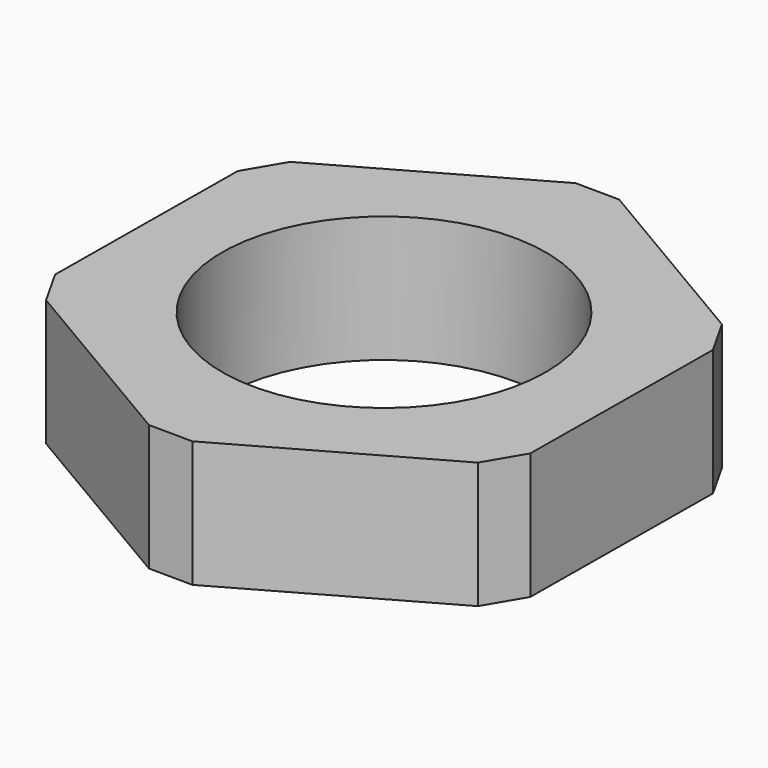
from build123d import *

# Parameters (mm, degrees)
F0_R     = 32.560597
F1_DEPTH = 25.4
F2_SIZE2 = 5.08
F2_SIZE  = 5.08


with BuildPart() as f1:
    # F0 (on Top) → F1 (new body)
    with BuildSketch(Plane.XY):
        Polygon((-0.49722, -55.545455), (47.855165, -28.203333), (48.352385, 27.342122), (0.49722, 55.545455), (-47.855165, 28.203333), (-48.352385, -27.342122), align=None)
        Circle(F0_R, mode=Mode.SUBTRACT)
    extrude(amount=F1_DEPTH)

    # F2
    f2_edges = [f1.edges().sort_by_distance(p)[0] for p in [
        (-48.352385, -27.342122, 12.7),
        (-47.855165, 28.203333, 12.7),
        (-0.49722, -55.545455, 12.7),
        (0.49722, 55.545455, 12.7),
        (48.352385, 27.342122, 12.7),
        (47.855165, -28.203333, 12.7),
    ]]
    chamfer(f2_edges, length=F2_SIZE, length2=F2_SIZE2)


solid = f1.part
